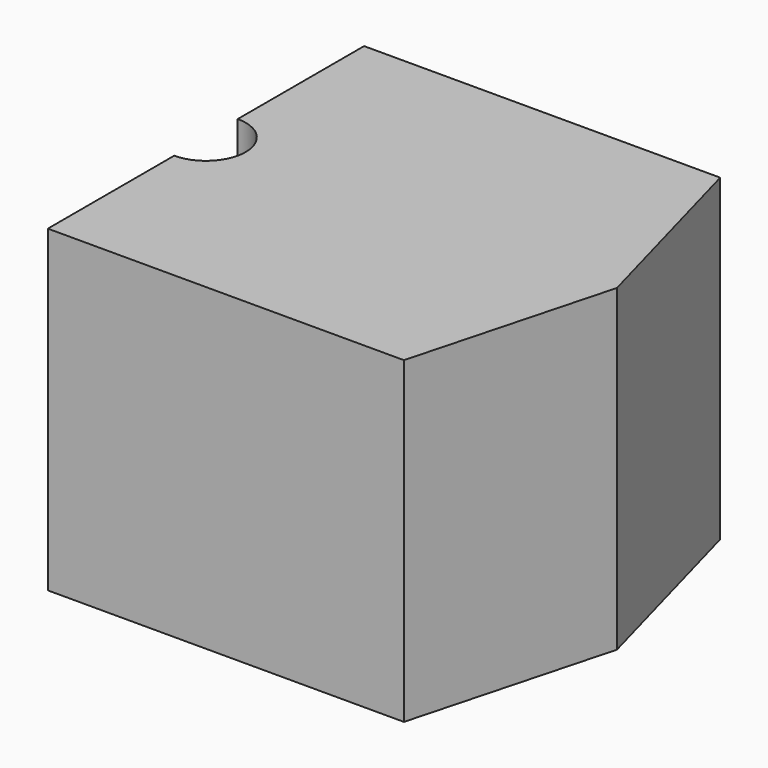
from build123d import *

# Parameters (mm, degrees)
F1_DEPTH = 235.966
F2_T     = -2.54


with BuildPart() as f1:
    # F0 (on Top) → F1 (new body)
    with BuildSketch(Plane.XY):
        Polygon((-46.833824, 114.64637), (-310.6848, 114.64637), (-46.833824, -178.271423), align=None)
        with BuildLine():
            Line((-46.833824, -178.271423), (-310.6848, 114.64637))
            Line((-310.6848, 114.64637), (-310.6848, -2.378375))
            ThreePointArc((-310.6848, -2.378375), (-289.871712, -10.999438), (-281.250649, -31.812526))
            ThreePointArc((-281.250649, -31.812526), (-289.871712, -52.625614), (-310.6848, -61.246678))
            Line((-310.6848, -61.246678), (-310.6848, -178.271423))
            Line((-310.6848, -178.271423), (-46.833824, -178.271423))
        make_face()
        Polygon((-7.130801, -30.57784), (-46.833824, 114.64637), (-46.833824, -178.271423), align=None)
    extrude(amount=F1_DEPTH)

    # F2
    f2_openings = [f1.faces().sort_by_distance(p)[0] for p in [
        (-166.444508, -31.783249, 0),
    ]]
    offset(amount=F2_T, openings=f2_openings)


solid = f1.part
